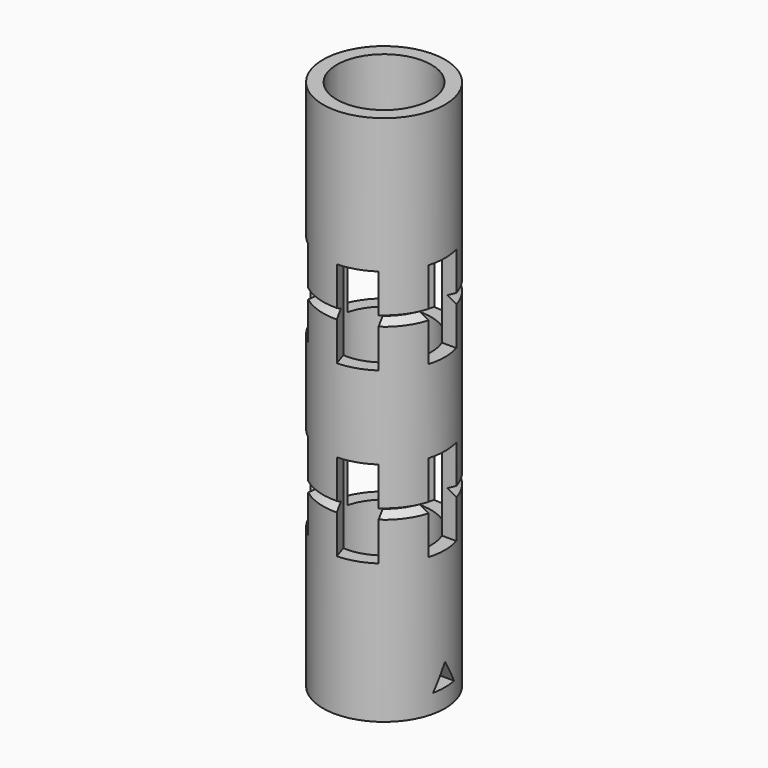
from build123d import *

# Parameters (mm, degrees)
SKETCH_R           = 7
PAD_DEPTH          = 61
SKETCH001_R        = 5.425
POCKET_DEPTH       = 61.001
POCKET001_DEPTH    = 5
SKETCH004_W        = 4
SKETCH004_H        = 10
POCKET002_DEPTH    = 5
POLARPATTERN_COUNT = 5


with BuildPart() as part:
    # Sketch → Pad (new body)
    with BuildSketch(Plane.XY):
        Circle(SKETCH_R)
    extrude(amount=PAD_DEPTH)

    # Sketch001 (on Face3 of Pad) → Pocket (cut, through all)
    with BuildSketch(Plane.XY.offset(61)):
        Circle(SKETCH001_R)
    extrude(amount=-POCKET_DEPTH, mode=Mode.SUBTRACT)

    # Sketch002 (on DatumPlane) → Groove (revolve, cut)
    with BuildSketch(Plane(origin=(0, 0, 30.5), x_dir=(0, 0, -1), z_dir=(1, 0, 0))):
        Polygon((9.5, 6), (11.25, 9.031089), (7.75, 9.031089), align=None)
        Polygon((-8.25, 9.031089), (-11.75, 9.031089), (-10, 6), align=None)
    revolve(axis=Axis((0, 0, 0), (0, 0, 1)), mode=Mode.SUBTRACT)

    # Sketch003 (on DatumPlane) → Pocket001 (cut)
    with BuildSketch(Plane.YZ.offset(7)):
        Polygon((0, 4.732051), (-1.5, 2.133975), (1.5, 2.133975), align=None)
    extrude(amount=-POCKET001_DEPTH, mode=Mode.SUBTRACT)

    # Sketch004 (on DatumPlane) → Pocket002 (cut)
    with BuildSketch(Plane.YZ.offset(7)):
        with Locations((0, 40.5)):
            Rectangle(SKETCH004_W, SKETCH004_H)
        with Locations((0, 21)):
            Rectangle(SKETCH004_W, SKETCH004_H)
    pocket002 = extrude(amount=-POCKET002_DEPTH, mode=Mode.SUBTRACT)

    # PolarPattern: Pocket002 ×5 about axis
    polarpattern_axis = Axis((0, 0, 0), (0, 0, 1))
    for i in range(1, POLARPATTERN_COUNT):
        add(pocket002.rotate(polarpattern_axis, i * 360 / POLARPATTERN_COUNT), mode=Mode.SUBTRACT)


solid = part.part
